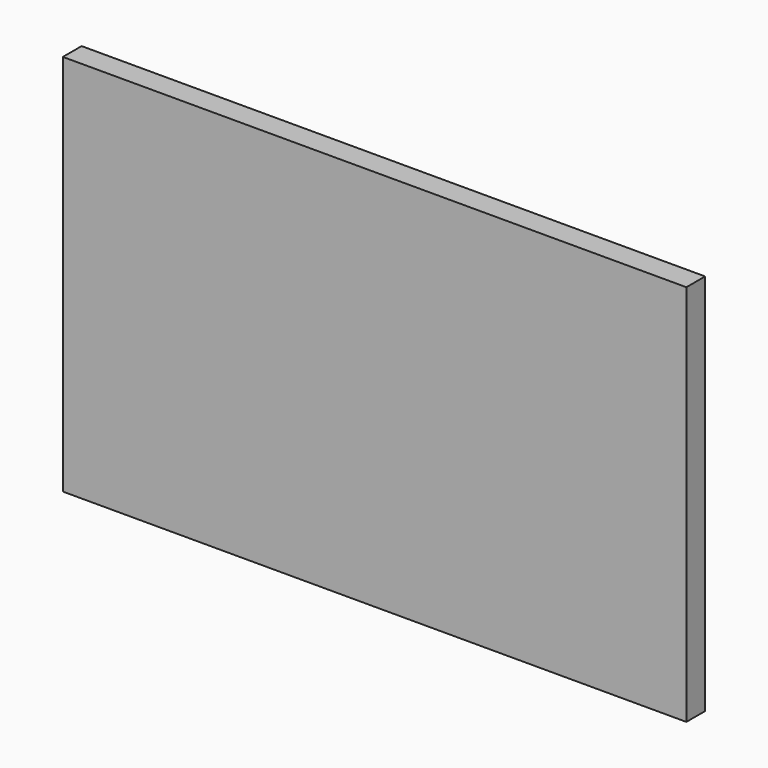
from build123d import *

# Parameters (mm, degrees)
SKETCH_W  = 479
SKETCH_H  = 294
PAD_DEPTH = 18


with BuildPart() as part:
    # Sketch → Pad (new body)
    with BuildSketch(Plane.XZ):
        Rectangle(SKETCH_W, SKETCH_H)
    extrude(amount=PAD_DEPTH)


solid = part.part
